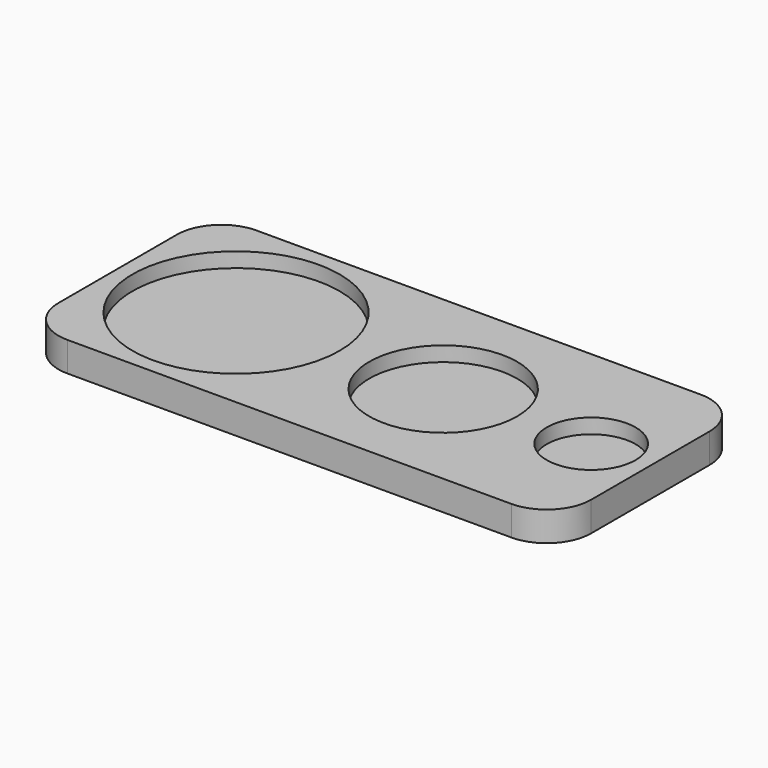
from build123d import *

# Parameters (mm, degrees)
F0_W     = 180
F0_H     = 80
F1_DEPTH = 5
F2_R     = 15
F3_R     = 35
F3_R_2   = 25
F3_R_3   = 15
F4_DEPTH = 5


with BuildPart() as f1:
    # F0 (on Top) → F1 (new body, symmetric)
    with BuildSketch(Plane.XY):
        Rectangle(F0_W, F0_H)
    extrude(amount=F1_DEPTH, both=True)

    # F2
    f2_edges = [f1.edges().sort_by_distance(p)[0] for p in [
        (90, 40, 0),
        (-90, 40, 0),
        (90, -40, 0),
        (-90, -40, 0),
    ]]
    fillet(f2_edges, radius=F2_R)

    # F3 (on face) → F4 (cut)
    with BuildSketch(Plane.XY.offset(5)):
        with Locations((-50, 0)):
            Circle(F3_R)
        with Locations((20, 0)):
            Circle(F3_R_2)
        with Locations((70, 0)):
            Circle(F3_R_3)
    extrude(amount=-F4_DEPTH, mode=Mode.SUBTRACT)


solid = f1.part
